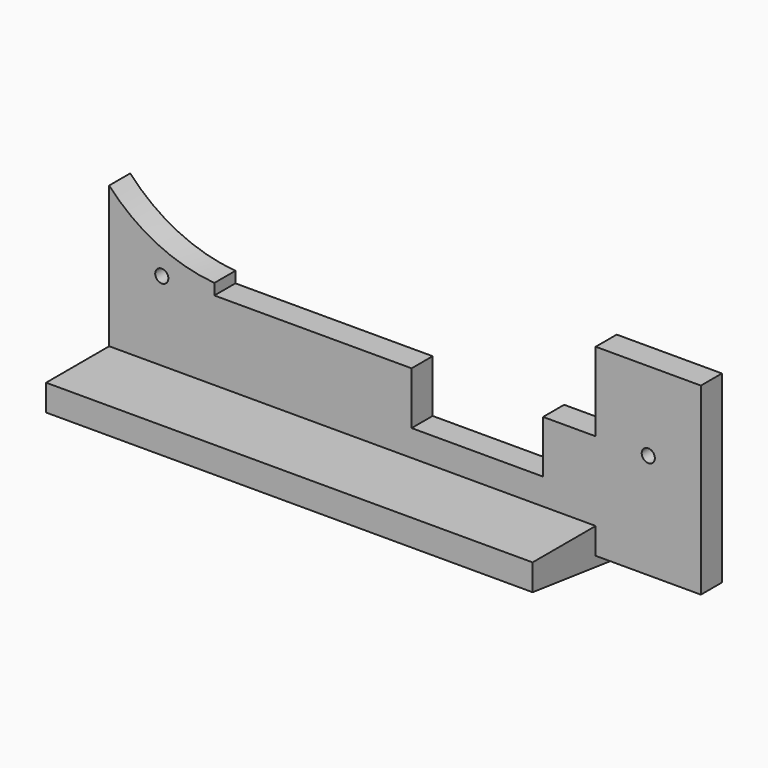
from build123d import *

# Parameters (mm, degrees)
CYLINDER050_R     = 12.2
CYLINDER050_DEPTH = 2
CYLINDER003_R     = 0.5
CYLINDER003_DEPTH = 10
CYLINDER004_R     = 0.5
CYLINDER004_DEPTH = 10
BOX003_W          = 8
BOX003_H          = 2
BOX003_DEPTH      = 14
BOX004_W          = 10
BOX004_H          = 2
BOX004_DEPTH      = 4
PAD017_DEPTH      = 37
BOX002_W          = 8
BOX002_H          = 2
BOX002_DEPTH      = 14


with BuildPart() as cylinder050:
    # Cylinder050 → Cylinder050 (new body)
    with BuildSketch(Plane(origin=(25, -7, 21), x_dir=(1, 0, 0), z_dir=(0, 1, 0))):
        Circle(CYLINDER050_R)
    extrude(amount=CYLINDER050_DEPTH)


with BuildPart() as cylinder003:
    # Cylinder003 → Cylinder003 (new body)
    with BuildSketch(Plane(origin=(57, 0, 8), x_dir=(1, 0, 0), z_dir=(0, -1, 0))):
        Circle(CYLINDER003_R)
    extrude(amount=CYLINDER003_DEPTH)


with BuildPart() as fusion007:
    # Cylinder004 → Cylinder004 (new body)
    with BuildSketch(Plane(origin=(20, 0, 8), x_dir=(1, 0, 0), z_dir=(0, -1, 0))):
        Circle(CYLINDER004_R)
    extrude(amount=CYLINDER004_DEPTH)

    # Fusion007: union Cylinder003
    add(cylinder003.part)


with BuildPart() as cube003:
    # Box003 → Box003 (new body)
    with BuildSketch(Plane(origin=(16, -7, 0), x_dir=(1, 0, 0), z_dir=(0, 0, 1))):
        with Locations((4, 1)):
            Rectangle(BOX003_W, BOX003_H)
    extrude(amount=BOX003_DEPTH)


with BuildPart() as cube004:
    # Box004 → Box004 (new body)
    with BuildSketch(Plane(origin=(39, -7, 4), x_dir=(1, 0, 0), z_dir=(0, 0, 1))):
        with Locations((5, 1)):
            Rectangle(BOX004_W, BOX004_H)
    extrude(amount=BOX004_DEPTH)


with BuildPart() as cut002:
    # Sketch152 → Pad017 (new body)
    with BuildSketch(Plane.ZY):
        Polygon((-1, -5), (0, -13), (1.999611, -13), (1.999611, -7), (7.999909, -7), (7.999909, -5), align=None)
    extrude(amount=-PAD017_DEPTH)


with BuildPart() as cut002_1:
    # Body015 placement: moved
    add(cut002.part.moved(Location((16, 0, 0))))

    # Cut002: cut Cube004
    add(cube004.part, mode=Mode.SUBTRACT)


with BuildPart() as mountclip2:
    # Box002 → Box002 (new body)
    with BuildSketch(Plane(origin=(53, -7, 0), x_dir=(1, 0, 0), z_dir=(0, 0, 1))):
        with Locations((4, 1)):
            Rectangle(BOX002_W, BOX002_H)
    extrude(amount=BOX002_DEPTH)

    # Fusion006: union Cube003, Cut002
    add(cube003.part)
    add(cut002_1.part)

    # Cut003: cut Fusion007
    add(fusion007.part, mode=Mode.SUBTRACT)

    # Cut026: cut Cylinder050
    add(cylinder050.part, mode=Mode.SUBTRACT)


solid = mountclip2.part
